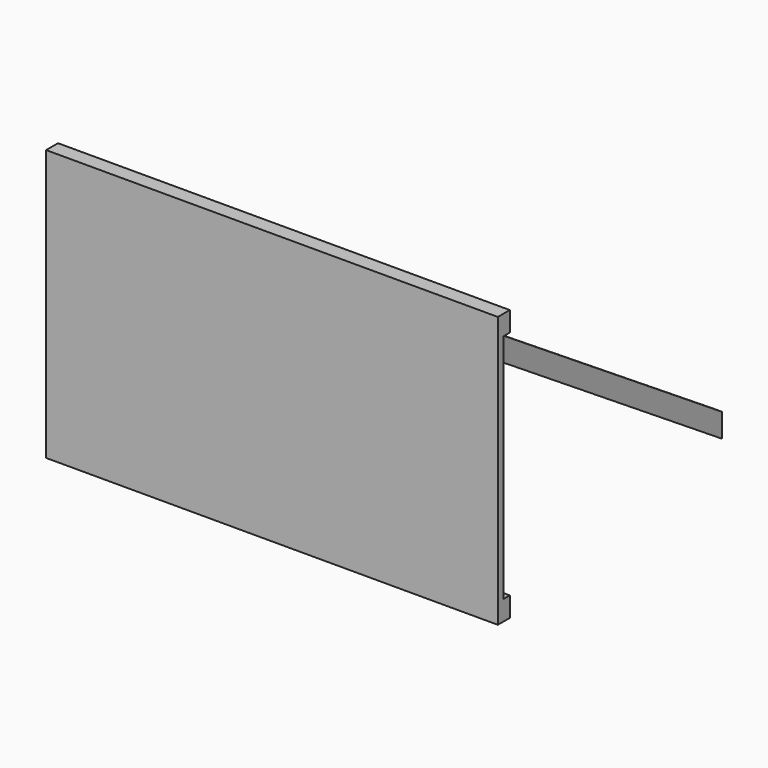
from build123d import *

# Parameters (mm, degrees)
F0_W     = 1000
F0_H     = 600
F1_DEPTH = 15
F3_W     = 1000
F3_H     = 44
F4_DEPTH = 18
F5_W     = 1000
F5_H     = 44
F6_DEPTH = 18
F9_DEPTH = 20


with BuildPart() as f1:
    # F0 (on Front) → F1 (new body)
    with BuildSketch(Plane.XZ):
        with Locations((0, 300)):
            Rectangle(F0_W, F0_H)
    extrude(amount=F1_DEPTH)

    # F3 (on offset) → F4 (join)
    with BuildSketch(Plane(origin=(0, 0, 0), x_dir=(-1, 0, 0), z_dir=(0, 1, 0))):
        with Locations((0, 22)):
            Rectangle(F3_W, F3_H)
    extrude(amount=F4_DEPTH)

    # F5 (on offset) → F6 (join)
    with BuildSketch(Plane(origin=(0, 0, 0), x_dir=(-1, 0, 0), z_dir=(0, 1, 0))):
        with Locations((0, 578)):
            Rectangle(F5_W, F5_H)
    extrude(amount=F6_DEPTH)

    # F8 (on offset) → F9 (join)
    with BuildSketch(Plane(origin=(-400, 0, 0), x_dir=(0, -1, 0), z_dir=(-1, 0, 0))):
        Polygon((0, 503.4799401049), (0, 556), (-705, 96.5200598951), (-705, 44), align=None)
    extrude(amount=F9_DEPTH)

    # F10: F1 across plane


with BuildPart() as f1_1:
    add(f1.part)
    add(f1.part.mirror(Plane.YZ))


solid = f1_1.part
